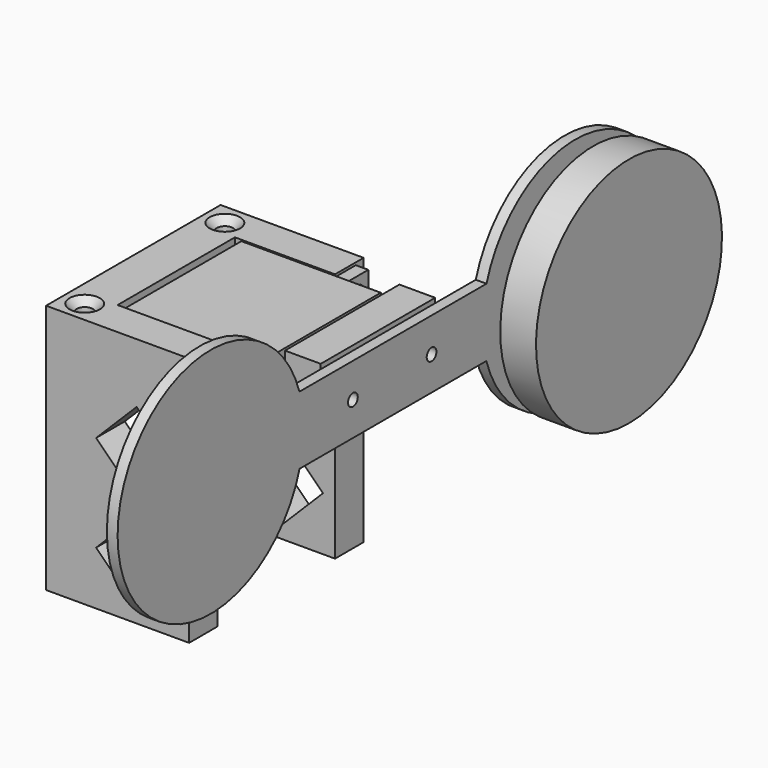
from build123d import *

# Parameters (mm, degrees)
CYLINDER_R             = 2.25
CYLINDER_DEPTH         = 10
CYLINDER001_R          = 2.25
CYLINDER001_DEPTH      = 10
CYLINDER003_R          = 2.25
CYLINDER003_DEPTH      = 10
CYLINDER002_R          = 2.25
CYLINDER002_DEPTH      = 10
BOX003_W               = 3.5
BOX003_H               = 7.5
BOX003_DEPTH           = 18.8
BOX004_W               = 3.5
BOX004_H               = 7.5
BOX004_DEPTH           = 18.8
BOX002_W               = 39
BOX002_H               = 40.5
BOX002_DEPTH           = 19.8
CYLINDER004_R          = 2
CYLINDER004_DEPTH      = 10
CYLINDER015_R          = 32.5
CYLINDER015_DEPTH      = 10
CYLINDER018_R          = 1.7
CYLINDER018_DEPTH      = 10
CYLINDER019_R          = 1.7
CYLINDER019_DEPTH      = 10
CYLINDER016_R          = 32.5
CYLINDER016_DEPTH      = 3
CYLINDER017_R          = 32.5
CYLINDER017_DEPTH      = 3
BOX007_W               = 3
BOX007_H               = 159
BOX007_DEPTH           = 19
CYLINDER014_R          = 1.5
CYLINDER014_DEPTH      = 10
CYLINDER013_R          = 1.5
CYLINDER013_DEPTH      = 10
CYLINDER012_R          = 1.7
CYLINDER012_DEPTH      = 10
CYLINDER011_R          = 3.15
CYLINDER011_DEPTH      = 10
BOX006_W               = 10
BOX006_H               = 40
BOX006_DEPTH           = 20
CHAMFER001_SIZE        = 2
CHAMFER002_SIZE        = 1
CHAMFER003_SIZE        = 1
BOX012_W               = 16
BOX012_H               = 12
BOX012_DEPTH           = 16
BOX012_PLACEMENT_ANGLE = 45
BOX011_W               = 16
BOX011_H               = 12
BOX011_DEPTH           = 16
BOX011_PLACEMENT_ANGLE = 45
BOX010_W               = 16
BOX010_H               = 12
BOX010_DEPTH           = 16
BOX010_PLACEMENT_ANGLE = 45
BOX009_W               = 16
BOX009_H               = 12
BOX009_DEPTH           = 16
BOX009_PLACEMENT_ANGLE = 45
BOX008_W               = 15
BOX008_H               = 35
BOX008_DEPTH           = 56
CYLINDER010_R          = 2.25
CYLINDER010_DEPTH      = 74
CYLINDER009_R          = 2.25
CYLINDER009_DEPTH      = 74
BOX005_W               = 4
BOX005_H               = 16
BOX005_DEPTH           = 7
CYLINDER006_R          = 1.6
CYLINDER006_DEPTH      = 10
CYLINDER007_R          = 1.6
CYLINDER007_DEPTH      = 10
CYLINDER008_R          = 1.6
CYLINDER008_DEPTH      = 10
CYLINDER005_R          = 1.6
CYLINDER005_DEPTH      = 10
BOX001_W               = 28
BOX001_H               = 41
BOX001_DEPTH           = 75
BOX_W                  = 40
BOX_H                  = 61
BOX_DEPTH              = 70
CHAMFER_SIZE           = 2
CHAMFER004_SIZE        = 1


with BuildPart() as cylinder:
    # Cylinder → Cylinder (new body)
    with BuildSketch(Plane(origin=(36, 5.6, 64.7), x_dir=(0, 0, -1), z_dir=(1, 0, 0))):
        Circle(CYLINDER_R)
    extrude(amount=CYLINDER_DEPTH)


with BuildPart() as fusion:
    # Cylinder001 → Cylinder001 (new body)
    with BuildSketch(Plane(origin=(36, 5.6, 54.7), x_dir=(0, 0, -1), z_dir=(1, 0, 0))):
        Circle(CYLINDER001_R)
    extrude(amount=CYLINDER001_DEPTH)

    # Fusion: union Cylinder
    add(cylinder.part)


with BuildPart() as cylinder003:
    # Cylinder003 → Cylinder003 (new body)
    with BuildSketch(Plane(origin=(36, 54.6, 54.7), x_dir=(0, 0, -1), z_dir=(1, 0, 0))):
        Circle(CYLINDER003_R)
    extrude(amount=CYLINDER003_DEPTH)


with BuildPart() as fusion003:
    # Cylinder002 → Cylinder002 (new body)
    with BuildSketch(Plane(origin=(36, 54.6, 64.7), x_dir=(0, 0, -1), z_dir=(1, 0, 0))):
        Circle(CYLINDER002_R)
    extrude(amount=CYLINDER002_DEPTH)

    # Fusion001: union Cylinder003
    add(cylinder003.part)

    # Fusion003: union Fusion
    add(fusion.part)


with BuildPart() as cube003:
    # Box003 → Box003 (new body)
    with BuildSketch(Plane(origin=(40, 2.75, 50.5), x_dir=(1, 0, 0), z_dir=(0, 0, 1))):
        with Locations((1.75, 3.75)):
            Rectangle(BOX003_W, BOX003_H)
    extrude(amount=BOX003_DEPTH)


with BuildPart() as cube004:
    # Box004 → Box004 (new body)
    with BuildSketch(Plane(origin=(40, 50.75, 50.5), x_dir=(1, 0, 0), z_dir=(0, 0, 1))):
        with Locations((1.75, 3.75)):
            Rectangle(BOX004_W, BOX004_H)
    extrude(amount=BOX004_DEPTH)


with BuildPart() as cut001:
    # Box002 → Box002 (new body)
    with BuildSketch(Plane(origin=(14, 10.25, 50), x_dir=(1, 0, 0), z_dir=(0, 0, 1))):
        with Locations((19.5, 20.25)):
            Rectangle(BOX002_W, BOX002_H)
    extrude(amount=BOX002_DEPTH)

    # Fusion002: union Cube003, Cube004
    add(cube003.part)
    add(cube004.part)

    # Cut001: cut Fusion003
    add(fusion003.part, mode=Mode.SUBTRACT)


with BuildPart() as fusion004:
    # Cylinder004 → Cylinder004 (new body)
    with BuildSketch(Plane(origin=(45, 36.25, 59.9), x_dir=(0, 0, -1), z_dir=(1, 0, 0))):
        Circle(CYLINDER004_R)
    extrude(amount=CYLINDER004_DEPTH)

    # Fusion004: union Cut001
    add(cut001.part)


with BuildPart() as cylinder015:
    # Cylinder015 → Cylinder015 (new body)
    with BuildSketch(Plane(origin=(73, 100, 59.9), x_dir=(0, 0, -1), z_dir=(1, 0, 0))):
        Circle(CYLINDER015_R)
    extrude(amount=CYLINDER015_DEPTH)


with BuildPart() as cylinder018:
    # Cylinder018 → Cylinder018 (new body)
    with BuildSketch(Plane(origin=(62, 22.25, 59.9), x_dir=(0, 0, -1), z_dir=(1, 0, 0))):
        Circle(CYLINDER018_R)
    extrude(amount=CYLINDER018_DEPTH)


with BuildPart() as fusion009:
    # Cylinder019 → Cylinder019 (new body)
    with BuildSketch(Plane(origin=(60, 49.75, 59.9), x_dir=(0, 0, -1), z_dir=(1, 0, 0))):
        Circle(CYLINDER019_R)
    extrude(amount=CYLINDER019_DEPTH)

    # Fusion009: union Cylinder018
    add(cylinder018.part)


with BuildPart() as cylinder016:
    # Cylinder016 → Cylinder016 (new body)
    with BuildSketch(Plane(origin=(65, 100, 59.9), x_dir=(0, 0, -1), z_dir=(1, 0, 0))):
        Circle(CYLINDER016_R)
    extrude(amount=CYLINDER016_DEPTH)


with BuildPart() as cylinder017:
    # Cylinder017 → Cylinder017 (new body)
    with BuildSketch(Plane(origin=(65, -27.5, 59.9), x_dir=(0, 0, -1), z_dir=(1, 0, 0))):
        Circle(CYLINDER017_R)
    extrude(amount=CYLINDER017_DEPTH)


with BuildPart() as cut008:
    # Box007 → Box007 (new body)
    with BuildSketch(Plane(origin=(65, -44, 50.5), x_dir=(1, 0, 0), z_dir=(0, 0, 1))):
        with Locations((1.5, 79.5)):
            Rectangle(BOX007_W, BOX007_H)
    extrude(amount=BOX007_DEPTH)

    # Fusion008: union Cylinder016, Cylinder017
    add(cylinder016.part)
    add(cylinder017.part)

    # Cut008: cut Fusion009
    add(fusion009.part, mode=Mode.SUBTRACT)


with BuildPart() as cylinder014:
    # Cylinder014 → Cylinder014 (new body)
    with BuildSketch(Plane(origin=(57, 22.25, 59.9), x_dir=(0, 0, -1), z_dir=(1, 0, 0))):
        Circle(CYLINDER014_R)
    extrude(amount=CYLINDER014_DEPTH)


with BuildPart() as fusion007:
    # Cylinder013 → Cylinder013 (new body)
    with BuildSketch(Plane(origin=(57, 49.75, 59.9), x_dir=(0, 0, -1), z_dir=(1, 0, 0))):
        Circle(CYLINDER013_R)
    extrude(amount=CYLINDER013_DEPTH)

    # Fusion007: union Cylinder014
    add(cylinder014.part)


with BuildPart() as cylinder012:
    # Cylinder012 → Cylinder012 (new body)
    with BuildSketch(Plane(origin=(57, 36.25, 59.9), x_dir=(0, 0, -1), z_dir=(1, 0, 0))):
        Circle(CYLINDER012_R)
    extrude(amount=CYLINDER012_DEPTH)


with BuildPart() as cylinder011:
    # Cylinder011 → Cylinder011 (new body)
    with BuildSketch(Plane(origin=(48, 36.25, 59.9), x_dir=(0, 0, -1), z_dir=(1, 0, 0))):
        Circle(CYLINDER011_R)
    extrude(amount=CYLINDER011_DEPTH)


with BuildPart() as chamfer003:
    # Box006 → Box006 (new body)
    with BuildSketch(Plane(origin=(54, 16, 50), x_dir=(1, 0, 0), z_dir=(0, 0, 1))):
        with Locations((5, 20)):
            Rectangle(BOX006_W, BOX006_H)
    extrude(amount=BOX006_DEPTH)

    # Cut005: cut Cylinder011
    add(cylinder011.part, mode=Mode.SUBTRACT)

    # Cut006: cut Cylinder012
    add(cylinder012.part, mode=Mode.SUBTRACT)

    # Chamfer001
    chamfer001_edges = [chamfer003.edges().sort_by_distance(p)[0] for p in [
        (64, 36.25, 61.6),
    ]]
    chamfer(chamfer001_edges, length=CHAMFER001_SIZE)

    # Cut007: cut Fusion007
    add(fusion007.part, mode=Mode.SUBTRACT)

    # Chamfer002
    chamfer002_edges = [chamfer003.edges().sort_by_distance(p)[0] for p in [
        (64, 49.75, 61.4),
        (64, 22.25, 61.4),
    ]]
    chamfer(chamfer002_edges, length=CHAMFER002_SIZE)

    # Chamfer003
    chamfer003_edges = [chamfer003.edges().sort_by_distance(p)[0] for p in [
        (54, 36.25, 63.05),
    ]]
    chamfer(chamfer003_edges, length=CHAMFER003_SIZE)


with BuildPart() as cube012:
    # Box012 → Box012 (new body)
    with BuildSketch(Plane.XY):
        with Locations((8, 6)):
            Rectangle(BOX012_W, BOX012_H)
    extrude(amount=BOX012_DEPTH)


with BuildPart() as cube012_1:
    # Box012 placement: moved
    add(cube012.part.moved(Location((14, 50, 42))).rotate(Axis((14, 50, 42), (0, 1, 0)), BOX012_PLACEMENT_ANGLE))


with BuildPart() as fusion011:
    # Box011 → Box011 (new body)
    with BuildSketch(Plane.XY):
        with Locations((8, 6)):
            Rectangle(BOX011_W, BOX011_H)
    extrude(amount=BOX011_DEPTH)


with BuildPart() as fusion011_1:
    # Box011 placement: moved
    add(fusion011.part.moved(Location((14, 50, 15))).rotate(Axis((14, 50, 15), (0, 1, 0)), BOX011_PLACEMENT_ANGLE))

    # Fusion011: union Cube012
    add(cube012_1.part)


with BuildPart() as cube010:
    # Box010 → Box010 (new body)
    with BuildSketch(Plane.XY):
        with Locations((8, 6)):
            Rectangle(BOX010_W, BOX010_H)
    extrude(amount=BOX010_DEPTH)


with BuildPart() as cube010_1:
    # Box010 placement: moved
    add(cube010.part.moved(Location((14, -1, 42))).rotate(Axis((14, -1, 42), (0, 1, 0)), BOX010_PLACEMENT_ANGLE))


with BuildPart() as fusion010:
    # Box009 → Box009 (new body)
    with BuildSketch(Plane.XY):
        with Locations((8, 6)):
            Rectangle(BOX009_W, BOX009_H)
    extrude(amount=BOX009_DEPTH)


with BuildPart() as fusion010_1:
    # Box009 placement: moved
    add(fusion010.part.moved(Location((14, -1, 15))).rotate(Axis((14, -1, 15), (0, 1, 0)), BOX009_PLACEMENT_ANGLE))

    # Fusion010: union Cube010
    add(cube010_1.part)


with BuildPart() as cube008:
    # Box008 → Box008 (new body)
    with BuildSketch(Plane(origin=(-1, 12, 7), x_dir=(1, 0, 0), z_dir=(0, 0, 1))):
        with Locations((7.5, 17.5)):
            Rectangle(BOX008_W, BOX008_H)
    extrude(amount=BOX008_DEPTH)


with BuildPart() as cylinder010:
    # Cylinder010 → Cylinder010 (new body)
    with BuildSketch(Plane(origin=(6, 55, -2), x_dir=(1, 0, 0), z_dir=(0, 0, 1))):
        Circle(CYLINDER010_R)
    extrude(amount=CYLINDER010_DEPTH)


with BuildPart() as fusion006:
    # Cylinder009 → Cylinder009 (new body)
    with BuildSketch(Plane(origin=(6, 6, -2), x_dir=(1, 0, 0), z_dir=(0, 0, 1))):
        Circle(CYLINDER009_R)
    extrude(amount=CYLINDER009_DEPTH)

    # Fusion006: union Cylinder010
    add(cylinder010.part)


with BuildPart() as cube005:
    # Box005 → Box005 (new body)
    with BuildSketch(Plane(origin=(15, 49, 57), x_dir=(1, 0, 0), z_dir=(0, 0, 1))):
        with Locations((2, 8)):
            Rectangle(BOX005_W, BOX005_H)
    extrude(amount=BOX005_DEPTH)


with BuildPart() as cylinder006:
    # Cylinder006 → Cylinder006 (new body)
    with BuildSketch(Plane(origin=(36, 54.6, 54.7), x_dir=(0, 0, -1), z_dir=(1, 0, 0))):
        Circle(CYLINDER006_R)
    extrude(amount=CYLINDER006_DEPTH)


with BuildPart() as cylinder007:
    # Cylinder007 → Cylinder007 (new body)
    with BuildSketch(Plane(origin=(36, 5.6, 64.7), x_dir=(0, 0, -1), z_dir=(1, 0, 0))):
        Circle(CYLINDER007_R)
    extrude(amount=CYLINDER007_DEPTH)


with BuildPart() as cylinder008:
    # Cylinder008 → Cylinder008 (new body)
    with BuildSketch(Plane(origin=(36, 5.6, 54.7), x_dir=(0, 0, -1), z_dir=(1, 0, 0))):
        Circle(CYLINDER008_R)
    extrude(amount=CYLINDER008_DEPTH)


with BuildPart() as fusion005:
    # Cylinder005 → Cylinder005 (new body)
    with BuildSketch(Plane(origin=(36, 54.6, 64.7), x_dir=(0, 0, -1), z_dir=(1, 0, 0))):
        Circle(CYLINDER005_R)
    extrude(amount=CYLINDER005_DEPTH)

    # Fusion005: union Cylinder006, Cylinder007, Cylinder008
    add(cylinder006.part)
    add(cylinder007.part)
    add(cylinder008.part)


with BuildPart() as cube001:
    # Box001 → Box001 (new body)
    with BuildSketch(Plane(origin=(12, 10, 0), x_dir=(1, 0, 0), z_dir=(0, 0, 1))):
        with Locations((14, 20.5)):
            Rectangle(BOX001_W, BOX001_H)
    extrude(amount=BOX001_DEPTH)


with BuildPart() as cut011:
    # Box → Box (new body)
    with BuildSketch(Plane.XY):
        with Locations((20, 30.5)):
            Rectangle(BOX_W, BOX_H)
    extrude(amount=BOX_DEPTH)

    # Cut: cut Cube001
    add(cube001.part, mode=Mode.SUBTRACT)

    # Cut002: cut Fusion005
    add(fusion005.part, mode=Mode.SUBTRACT)

    # Cut003: cut Cube005
    add(cube005.part, mode=Mode.SUBTRACT)

    # Cut004: cut Fusion006
    add(fusion006.part, mode=Mode.SUBTRACT)

    # Chamfer
    chamfer_edges = [cut011.edges().sort_by_distance(p)[0] for p in [
        (3.75, 6, 70),
        (3.75, 55, 70),
    ]]
    chamfer(chamfer_edges, length=CHAMFER_SIZE)

    # Chamfer004
    chamfer004_edges = [cut011.edges().sort_by_distance(p)[0] for p in [
        (40, 54.6, 56.3),
        (40, 54.6, 66.3),
        (40, 5.6, 56.3),
        (40, 5.6, 66.3),
    ]]
    chamfer(chamfer004_edges, length=CHAMFER004_SIZE)

    # Cut009: cut Cube008
    add(cube008.part, mode=Mode.SUBTRACT)

    # Cut010: cut Fusion010
    add(fusion010_1.part, mode=Mode.SUBTRACT)

    # Cut011: cut Fusion011
    add(fusion011_1.part, mode=Mode.SUBTRACT)


solid = Compound([fusion004.part, cylinder015.part, cut008.part, chamfer003.part, cut011.part])
